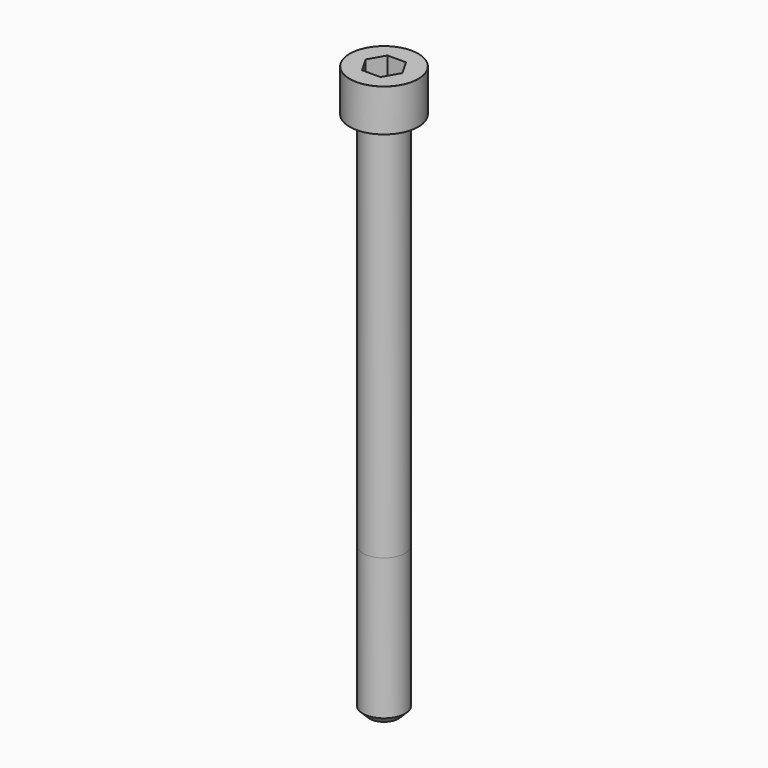
from build123d import *

# Parameters (mm, degrees)
POCKET_DEPTH = 6.06


with BuildPart() as part:
    # Sketch → Revolve (revolve)
    with BuildSketch(Plane.YZ):
        with BuildLine():
            Line((3.999, 0), (6.5, 0))
            Line((6.5, 0), (6.5, 7.97229))
            ThreePointArc((6.5, 7.97229), (6.491884, 7.991884), (6.47229, 8))
            Line((6.47229, 8), (0, 8))
            Line((0, -100), (0, 8))
            Line((2.75, -100), (0, -100))
            Line((4, -98.75), (2.75, -100))
            Line((4, -72), (4, -98.75))
            Line((3.999, 0), (4, -72))
        make_face()
    revolve(axis=Axis((0, 0, 0), (0, 0, 1)))

    # Sketch001 → Pocket (cut)
    with BuildSketch(Plane.XY.offset(8)):
        Polygon((3.498743, 0), (1.749371, 3.03), (-1.749371, 3.03), (-3.498743, 0), (-1.749371, -3.03), (1.749371, -3.03), align=None)
    extrude(amount=-POCKET_DEPTH, mode=Mode.SUBTRACT)


solid = part.part
